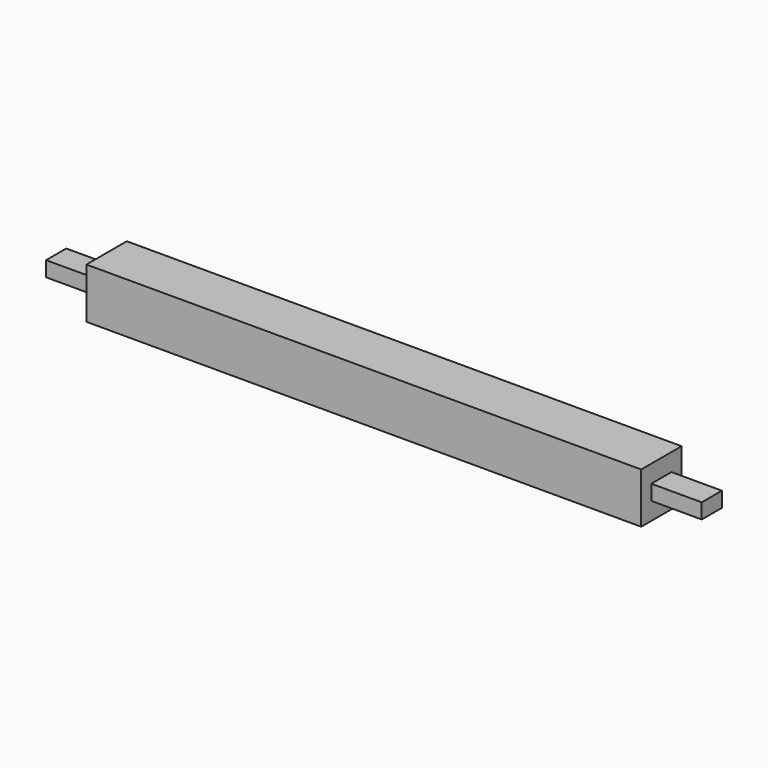
from build123d import *

# Parameters (mm, degrees)
F0_W     = 660.4
F0_H     = 50.8
F1_DEPTH = 50.8
F2_W     = 50.8
F2_H     = 50.8
F2_W_2   = 25.4
F2_H_2   = 15.24
F3_DEPTH = 50.8
F5_DEPTH = 50.8


with BuildPart() as f1:
    # F0 (on Top) → F1 (new body)
    with BuildSketch(Plane.XY):
        Rectangle(F0_W, F0_H)
    extrude(amount=F1_DEPTH)

    # F2 (on face) → F3 (cut)
    with BuildSketch(Plane(origin=(-330.2, 0, 0), x_dir=(0, -1, 0), z_dir=(-1, 0, 0))):
        with Locations((0, 25.4)):
            Rectangle(F2_W, F2_H)
        with Locations((0, 25.4)):
            Rectangle(F2_W_2, F2_H_2, mode=Mode.SUBTRACT)
    extrude(amount=-F3_DEPTH, mode=Mode.SUBTRACT)

    # F4 (on face) → F5 (cut)
    with BuildSketch(Plane.YZ.offset(330.2)):
        Polygon((-12.7, 17.78), (-25.4, 17.78), (-25.4, 0), (0, 0), (25.4, 0), (25.4, 17.78), (12.7, 17.78), align=None)
        Polygon((-25.4, 33.02), (-25.4, 17.78), (-12.7, 17.78), (-12.7, 25.4), (-12.7, 33.02), align=None)
        Polygon((-25.4, 50.8), (-25.4, 33.02), (-12.7, 33.02), (12.7, 33.02), (25.4, 33.02), (25.4, 50.8), (0, 50.8), align=None)
        Polygon((12.7, 25.4), (12.7, 17.78), (25.4, 17.78), (25.4, 33.02), (12.7, 33.02), align=None)
    extrude(amount=-F5_DEPTH, mode=Mode.SUBTRACT)


solid = f1.part
